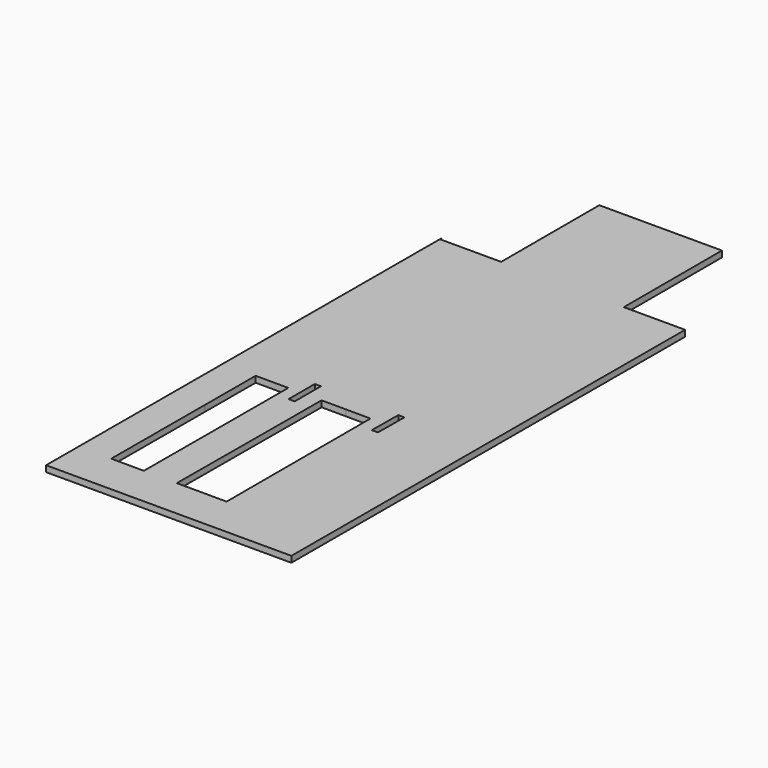
from build123d import *

# Parameters (mm, degrees)
F0_W     = 381
F0_H     = 381
F0_W_2   = 19.05
F0_H_2   = 101.6
F1_DEPTH = 19.05


with BuildPart() as f1:
    # F0 (on Top) → F1 (new body)
    with BuildSketch(Plane.XY):
        with Locations((431.801737, 1589.52043)):
            Rectangle(F0_W, F0_H)
        with Locations((431.801737, 1589.52043)):
            Rectangle(F0_W, F0_H)
        Polygon((47.983605, 364.294128), (46.651042, -124.97957), (808.651042, -124.97957), (812.801737, 1399.02043), (622.301737, 1399.02043), (241.301737, 1399.02043), (50.818977, 1399.02043), (50.818977, 1405.350483), align=None)
        Polygon((148.593587, 0.653433), (149.583228, 364.017416), (150.115503, 559.451361), (251.715126, 559.174649), (250.19321, 0.376722), align=None, mode=Mode.SUBTRACT)
        with Locations((298.59611, 564.617765)):
            Rectangle(F0_W_2, F0_H_2, mode=Mode.SUBTRACT)
        Polygon((355.601737, 558.717186), (431.801737, 558.381641), (508.001737, 558.037416), (508.001737, -0.759322), (429.341096, -0.412941), (353.139618, -0.412941), align=None, mode=Mode.SUBTRACT)
        Polygon((548.521661, 512.759166), (549.416431, 614.355226), (568.465692, 614.187457), (567.570922, 512.591397), align=None, mode=Mode.SUBTRACT)
    extrude(amount=F1_DEPTH)


solid = f1.part
